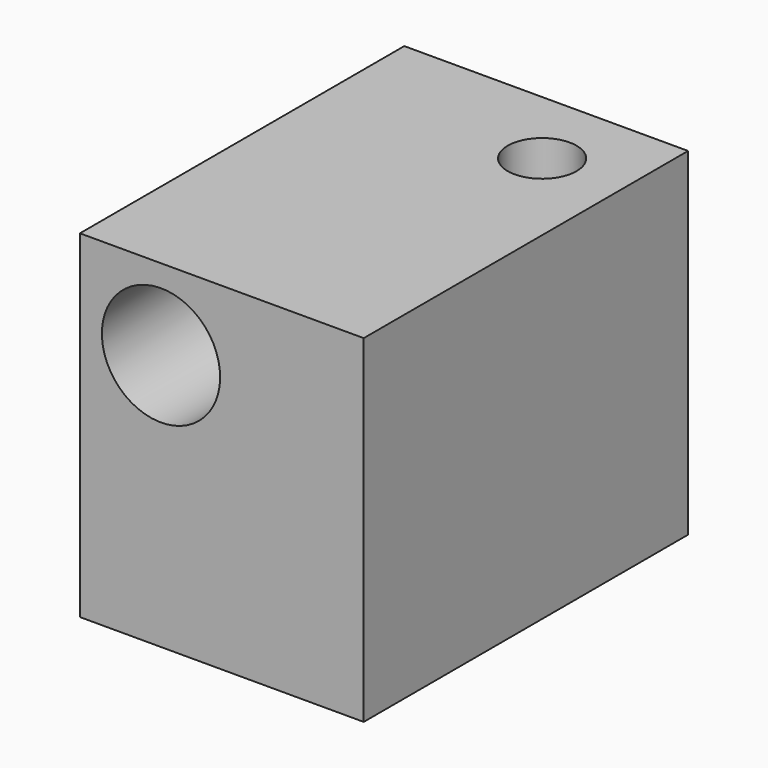
from build123d import *

# Parameters (mm, degrees)
F0_W      = 42
F0_H      = 60
F1_DEPTH  = 25
F2_R      = 5.1
F3_DEPTH  = 25.001
F1_FACE_W = 42
F1_FACE_H = 60
F1_FACE_R = 5.1
F4_DEPTH  = 25
F5_R      = 8.75
F6_DEPTH  = 30
F7_R      = 5.1
F8_DEPTH  = 60


with BuildPart() as f1:
    # F0 (on Top) → F1 (new body)
    with BuildSketch(Plane.XY):
        with Locations((-30.522955, 4.610215)):
            Rectangle(F0_W, F0_H)
    extrude(amount=F1_DEPTH)

    # F2 (on face) → F3 (cut, through all)
    with BuildSketch(Plane.XY.offset(25)):
        with Locations((-21.522955, 22.610215)):
            Circle(F2_R)
    extrude(amount=-F3_DEPTH, mode=Mode.SUBTRACT)

    # F1_face (on face) → F4 (join)
    with BuildSketch(Plane(origin=(-30.522955, 4.610215, 25), x_dir=(1, 0, 0), z_dir=(0, 0, 1))):
        Rectangle(F1_FACE_W, F1_FACE_H)
        with Locations((9, 18)):
            Circle(F1_FACE_R, mode=Mode.SUBTRACT)
    extrude(amount=F4_DEPTH)

    # F5 (on face) → F6 (cut)
    with BuildSketch(Plane.XZ.offset(25.389785)):
        with Locations((-39.522955, 38)):
            Circle(F5_R)
    extrude(amount=-F6_DEPTH, mode=Mode.SUBTRACT)

    # F7 (on face) → F8 (cut)
    with BuildSketch(Plane.XZ.offset(-4.610215)):
        with Locations((-39.522955, 38)):
            Circle(F7_R)
    extrude(amount=-F8_DEPTH, mode=Mode.SUBTRACT)


solid = f1.part
